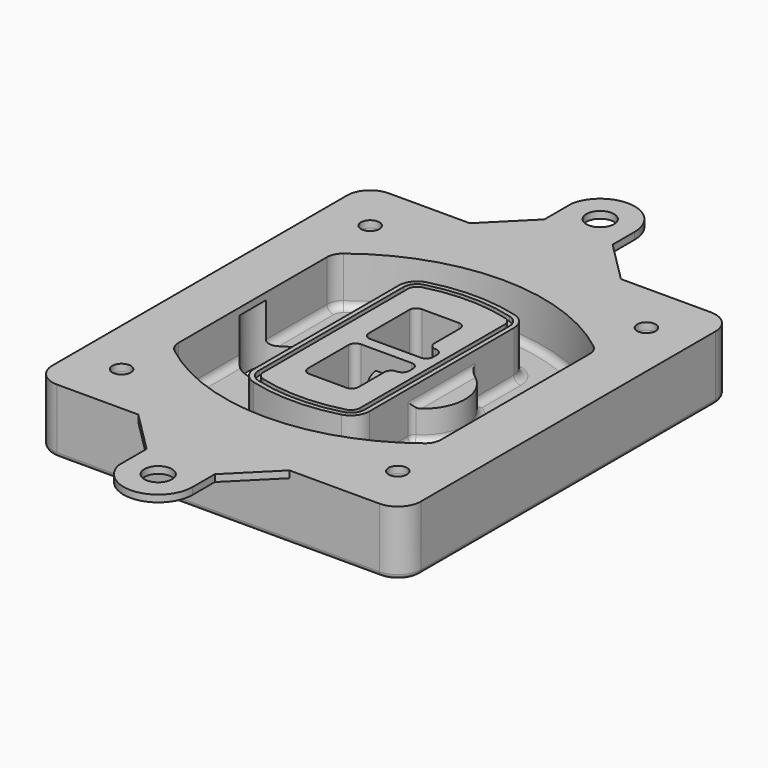
from build123d import *

# Parameters (mm, degrees)
F0_R      = 4
F1_DEPTH  = 25
F2_DEPTH  = 3
F3_DEPTH  = 18
F5_DEPTH  = 21
F6_DEPTH  = 2
F8_DEPTH  = 20
F9_DEPTH  = 16
F10_DEPTH = 25
F7_R      = 6
F7_R_2    = 4
F11_DEPTH = 6
F13_DEPTH = 9
F14_R     = 3
F15_R     = 2
F16_R     = 6
F16_R_2   = 4
F17_DEPTH = 3


with BuildPart() as f1:
    # F0 (on Top) → F1 (new body)
    with BuildSketch(Plane.XY):
        with BuildLine():
            ThreePointArc((-80, -80), (-77.0710678119, -87.0710678119), (-70, -90))
            Line((-70, -90), (70, -90))
            ThreePointArc((70, -90), (77.0710678119, -87.0710678119), (80, -80))
            Line((80, -80), (80, 80))
            ThreePointArc((80, 80), (77.0710678119, 87.0710678119), (70, 90))
            Line((70, 90), (-70, 90))
            ThreePointArc((-70, 90), (-77.0710678119, 87.0710678119), (-80, 80))
            Line((-80, 80), (-80, -80))
        make_face()
        with Locations((-60, -67.5)):
            Circle(F0_R, mode=Mode.SUBTRACT)
        with Locations((60, -67.5)):
            Circle(F0_R, mode=Mode.SUBTRACT)
        with Locations((-60, 67.5)):
            Circle(F0_R, mode=Mode.SUBTRACT)
        with BuildLine():
            ThreePointArc((-64, 40.2934422872), (-62.5820384798, 46.4328484224), (-58.6153846154, 51.3286200352))
            ThreePointArc((-58.6153846154, 51.3286200352), (0, 71.5), (58.6153846154, 51.3286200352))
            ThreePointArc((58.6153846154, 51.3286200352), (62.5820384798, 46.4328484224), (64, 40.2934422872))
            Line((64, 40.2934422872), (64, -40.2934422872))
            ThreePointArc((64, -40.2934422872), (62.5820384798, -46.4328484224), (58.6153846154, -51.3286200352))
            ThreePointArc((58.6153846154, -51.3286200352), (0, -71.5), (-58.6153846154, -51.3286200352))
            ThreePointArc((-58.6153846154, -51.3286200352), (-62.5820384798, -46.4328484224), (-64, -40.2934422872))
            Line((-64, -40.2934422872), (-64, 40.2934422872))
        make_face(mode=Mode.SUBTRACT)
        with Locations((60, 67.5)):
            Circle(F0_R, mode=Mode.SUBTRACT)
        with BuildLine():
            ThreePointArc((58.6153846154, 51.3286200352), (0, 71.5), (-58.6153846154, 51.3286200352))
            ThreePointArc((-58.6153846154, 51.3286200352), (-62.5820384798, 46.4328484224), (-64, 40.2934422872))
            Line((-64, 40.2934422872), (-64, -40.2934422872))
            ThreePointArc((-64, -40.2934422872), (-62.5820384798, -46.4328484224), (-58.6153846154, -51.3286200352))
            ThreePointArc((-58.6153846154, -51.3286200352), (0, -71.5), (58.6153846154, -51.3286200352))
            ThreePointArc((58.6153846154, -51.3286200352), (62.5820384798, -46.4328484224), (64, -40.2934422872))
            Line((64, -40.2934422872), (64, 40.2934422872))
            ThreePointArc((64, 40.2934422872), (62.5820384798, 46.4328484224), (58.6153846154, 51.3286200352))
        make_face()
        with BuildLine():
            Line((-60, -40.2934422872), (-60, 40.2934422872))
            ThreePointArc((-60, 40.2934422872), (-58.9871703427, 44.6787323838), (-56.1538461538, 48.1757121072))
            ThreePointArc((-56.1538461538, 48.1757121072), (0, 67.5), (56.1538461538, 48.1757121072))
            ThreePointArc((56.1538461538, 48.1757121072), (58.9871703427, 44.6787323838), (60, 40.2934422872))
            Line((60, 40.2934422872), (60, -40.2934422872))
            ThreePointArc((60, -40.2934422872), (58.9871703427, -44.6787323838), (56.1538461538, -48.1757121072))
            ThreePointArc((56.1538461538, -48.1757121072), (0, -67.5), (-56.1538461538, -48.1757121072))
            ThreePointArc((-56.1538461538, -48.1757121072), (-58.9871703427, -44.6787323838), (-60, -40.2934422872))
        make_face(mode=Mode.SUBTRACT)
        with BuildLine():
            ThreePointArc((-56.1538461538, 48.1757121072), (-58.9871703427, 44.6787323838), (-60, 40.2934422872))
            Line((-60, 40.2934422872), (-60, -40.2934422872))
            ThreePointArc((-60, -40.2934422872), (-58.9871703427, -44.6787323838), (-56.1538461538, -48.1757121072))
            ThreePointArc((-56.1538461538, -48.1757121072), (0, -67.5), (56.1538461538, -48.1757121072))
            ThreePointArc((56.1538461538, -48.1757121072), (58.9871703427, -44.6787323838), (60, -40.2934422872))
            Line((60, -40.2934422872), (60, 40.2934422872))
            ThreePointArc((60, 40.2934422872), (58.9871703427, 44.6787323838), (56.1538461538, 48.1757121072))
            ThreePointArc((56.1538461538, 48.1757121072), (0, 67.5), (-56.1538461538, 48.1757121072))
        make_face()
        with BuildLine():
            ThreePointArc((54.3076923077, 45.8110311612), (56.2910192399, 43.3631453548), (57, 40.2934422872))
            Line((57, 40.2934422872), (57, -40.2934422872))
            ThreePointArc((57, -40.2934422872), (56.2910192399, -43.3631453548), (54.3076923077, -45.8110311612))
            ThreePointArc((54.3076923077, -45.8110311612), (0, -64.5), (-54.3076923077, -45.8110311612))
            ThreePointArc((-54.3076923077, -45.8110311612), (-56.2910192399, -43.3631453548), (-57, -40.2934422872))
            Line((-57, -40.2934422872), (-57, 40.2934422872))
            ThreePointArc((-57, 40.2934422872), (-56.2910192399, 43.3631453548), (-54.3076923077, 45.8110311612))
            ThreePointArc((-54.3076923077, 45.8110311612), (0, 64.5), (54.3076923077, 45.8110311612))
        make_face(mode=Mode.SUBTRACT)
        with BuildLine():
            Line((57, -40.2934422872), (57, 40.2934422872))
            ThreePointArc((57, 40.2934422872), (56.2910192399, 43.3631453548), (54.3076923077, 45.8110311612))
            ThreePointArc((54.3076923077, 45.8110311612), (0, 64.5), (-54.3076923077, 45.8110311612))
            ThreePointArc((-54.3076923077, 45.8110311612), (-56.2910192399, 43.3631453548), (-57, 40.2934422872))
            Line((-57, 40.2934422872), (-57, -40.2934422872))
            ThreePointArc((-57, -40.2934422872), (-56.2910192399, -43.3631453548), (-54.3076923077, -45.8110311612))
            ThreePointArc((-54.3076923077, -45.8110311612), (0, -64.5), (54.3076923077, -45.8110311612))
            ThreePointArc((54.3076923077, -45.8110311612), (56.2910192399, -43.3631453548), (57, -40.2934422872))
        make_face()
    extrude(amount=-F1_DEPTH)

    # F0 (on Top) → F2 (join)
    with BuildSketch(Plane.XY):
        with BuildLine():
            ThreePointArc((-56.1538461538, 48.1757121072), (-58.9871703427, 44.6787323838), (-60, 40.2934422872))
            Line((-60, 40.2934422872), (-60, -40.2934422872))
            ThreePointArc((-60, -40.2934422872), (-58.9871703427, -44.6787323838), (-56.1538461538, -48.1757121072))
            ThreePointArc((-56.1538461538, -48.1757121072), (0, -67.5), (56.1538461538, -48.1757121072))
            ThreePointArc((56.1538461538, -48.1757121072), (58.9871703427, -44.6787323838), (60, -40.2934422872))
            Line((60, -40.2934422872), (60, 40.2934422872))
            ThreePointArc((60, 40.2934422872), (58.9871703427, 44.6787323838), (56.1538461538, 48.1757121072))
            ThreePointArc((56.1538461538, 48.1757121072), (0, 67.5), (-56.1538461538, 48.1757121072))
        make_face()
        with BuildLine():
            ThreePointArc((54.3076923077, 45.8110311612), (56.2910192399, 43.3631453548), (57, 40.2934422872))
            Line((57, 40.2934422872), (57, -40.2934422872))
            ThreePointArc((57, -40.2934422872), (56.2910192399, -43.3631453548), (54.3076923077, -45.8110311612))
            ThreePointArc((54.3076923077, -45.8110311612), (0, -64.5), (-54.3076923077, -45.8110311612))
            ThreePointArc((-54.3076923077, -45.8110311612), (-56.2910192399, -43.3631453548), (-57, -40.2934422872))
            Line((-57, -40.2934422872), (-57, 40.2934422872))
            ThreePointArc((-57, 40.2934422872), (-56.2910192399, 43.3631453548), (-54.3076923077, 45.8110311612))
            ThreePointArc((-54.3076923077, 45.8110311612), (0, 64.5), (54.3076923077, 45.8110311612))
        make_face(mode=Mode.SUBTRACT)
    extrude(amount=F2_DEPTH)

    # F0 (on Top) → F3 (cut)
    with BuildSketch(Plane.XY):
        with BuildLine():
            Line((57, -40.2934422872), (57, 40.2934422872))
            ThreePointArc((57, 40.2934422872), (56.2910192399, 43.3631453548), (54.3076923077, 45.8110311612))
            ThreePointArc((54.3076923077, 45.8110311612), (0, 64.5), (-54.3076923077, 45.8110311612))
            ThreePointArc((-54.3076923077, 45.8110311612), (-56.2910192399, 43.3631453548), (-57, 40.2934422872))
            Line((-57, 40.2934422872), (-57, -40.2934422872))
            ThreePointArc((-57, -40.2934422872), (-56.2910192399, -43.3631453548), (-54.3076923077, -45.8110311612))
            ThreePointArc((-54.3076923077, -45.8110311612), (0, -64.5), (54.3076923077, -45.8110311612))
            ThreePointArc((54.3076923077, -45.8110311612), (56.2910192399, -43.3631453548), (57, -40.2934422872))
        make_face()
    extrude(amount=-F3_DEPTH, mode=Mode.SUBTRACT)

    # F4 (on face) → F5 (join, through all)
    with BuildSketch(Plane.XY.offset(3)):
        with BuildLine():
            ThreePointArc((-25, -39.2465276821), (-23.3511545998, -44.1109737193), (-19.0842911877, -46.9702398883))
            ThreePointArc((-19.0842911877, -46.9702398883), (0, -49.5), (19.0842911877, -46.9702398883))
            ThreePointArc((19.0842911877, -46.9702398883), (23.3511545998, -44.1109737193), (25, -39.2465276821))
            Line((25, -39.2465276821), (25, 39.2465276821))
            ThreePointArc((25, 39.2465276821), (23.3511545998, 44.1109737193), (19.0842911877, 46.9702398883))
            ThreePointArc((19.0842911877, 46.9702398883), (0, 49.5), (-19.0842911877, 46.9702398883))
            ThreePointArc((-19.0842911877, 46.9702398883), (-23.3511545998, 44.1109737193), (-25, 39.2465276821))
            Line((-25, 39.2465276821), (-25, -39.2465276821))
        make_face()
        with BuildLine():
            ThreePointArc((18.5632183908, 45.0393118368), (21.7633659499, 42.89486221), (23, 39.2465276821))
            Line((23, 39.2465276821), (23, -39.2465276821))
            ThreePointArc((23, -39.2465276821), (21.7633659499, -42.89486221), (18.5632183908, -45.0393118368))
            ThreePointArc((18.5632183908, -45.0393118368), (0, -47.5), (-18.5632183908, -45.0393118368))
            ThreePointArc((-18.5632183908, -45.0393118368), (-21.7633659499, -42.89486221), (-23, -39.2465276821))
            Line((-23, -39.2465276821), (-23, 39.2465276821))
            ThreePointArc((-23, 39.2465276821), (-21.7633659499, 42.89486221), (-18.5632183908, 45.0393118368))
            ThreePointArc((-18.5632183908, 45.0393118368), (0, 47.5), (18.5632183908, 45.0393118368))
        make_face(mode=Mode.SUBTRACT)
        with BuildLine():
            Line((23, -39.2465276821), (23, 39.2465276821))
            ThreePointArc((23, 39.2465276821), (21.7633659499, 42.89486221), (18.5632183908, 45.0393118368))
            ThreePointArc((18.5632183908, 45.0393118368), (0, 47.5), (-18.5632183908, 45.0393118368))
            ThreePointArc((-18.5632183908, 45.0393118368), (-21.7633659499, 42.89486221), (-23, 39.2465276821))
            Line((-23, 39.2465276821), (-23, -39.2465276821))
            ThreePointArc((-23, -39.2465276821), (-21.7633659499, -42.89486221), (-18.5632183908, -45.0393118368))
            ThreePointArc((-18.5632183908, -45.0393118368), (0, -47.5), (18.5632183908, -45.0393118368))
            ThreePointArc((18.5632183908, -45.0393118368), (21.7633659499, -42.89486221), (23, -39.2465276821))
        make_face()
        with BuildLine():
            ThreePointArc((18.0421455939, 43.1083837852), (20.1755772999, 41.6787507007), (21, 39.2465276821))
            Line((21, 39.2465276821), (21, -39.2465276821))
            ThreePointArc((21, -39.2465276821), (20.1755772999, -41.6787507007), (18.0421455939, -43.1083837852))
            ThreePointArc((18.0421455939, -43.1083837852), (0, -45.5), (-18.0421455939, -43.1083837852))
            ThreePointArc((-18.0421455939, -43.1083837852), (-20.1755772999, -41.6787507007), (-21, -39.2465276821))
            Line((-21, -39.2465276821), (-21, 39.2465276821))
            ThreePointArc((-21, 39.2465276821), (-20.1755772999, 41.6787507007), (-18.0421455939, 43.1083837852))
            ThreePointArc((-18.0421455939, 43.1083837852), (0, 45.5), (18.0421455939, 43.1083837852))
        make_face(mode=Mode.SUBTRACT)
        with BuildLine():
            Line((21, -39.2465276821), (21, 39.2465276821))
            ThreePointArc((21, 39.2465276821), (20.1755772999, 41.6787507007), (18.0421455939, 43.1083837852))
            ThreePointArc((18.0421455939, 43.1083837852), (0, 45.5), (-18.0421455939, 43.1083837852))
            ThreePointArc((-18.0421455939, 43.1083837852), (-20.1755772999, 41.6787507007), (-21, 39.2465276821))
            Line((-21, 39.2465276821), (-21, -39.2465276821))
            ThreePointArc((-21, -39.2465276821), (-20.1755772999, -41.6787507007), (-18.0421455939, -43.1083837852))
            ThreePointArc((-18.0421455939, -43.1083837852), (0, -45.5), (18.0421455939, -43.1083837852))
            ThreePointArc((18.0421455939, -43.1083837852), (20.1755772999, -41.6787507007), (21, -39.2465276821))
        make_face()
        with BuildLine():
            Line((-8, -2.5), (14, -2.5))
            ThreePointArc((14, -2.5), (16.1213203436, -3.3786796564), (17, -5.5))
            Line((17, -5.5), (17, -7.5))
            ThreePointArc((17, -7.5), (16.1213203436, -9.6213203436), (14, -10.5))
            ThreePointArc((14, -10.5), (11.8786796564, -11.3786796564), (11, -13.5))
            Line((11, -13.5), (11, -27.5))
            ThreePointArc((11, -27.5), (10.1213203436, -29.6213203436), (8, -30.5))
            Line((8, -30.5), (-8, -30.5))
            ThreePointArc((-8, -30.5), (-10.1213203436, -29.6213203436), (-11, -27.5))
            Line((-11, -27.5), (-11, -5.5))
            ThreePointArc((-11, -5.5), (-10.1213203436, -3.3786796564), (-8, -2.5))
        make_face(mode=Mode.SUBTRACT)
        with BuildLine():
            ThreePointArc((-8, 2.5), (-10.1213203436, 3.3786796564), (-11, 5.5))
            Line((-11, 5.5), (-11, 27.5))
            ThreePointArc((-11, 27.5), (-10.1213203436, 29.6213203436), (-8, 30.5))
            Line((-8, 30.5), (8, 30.5))
            ThreePointArc((8, 30.5), (10.1213203436, 29.6213203436), (11, 27.5))
            Line((11, 27.5), (11, 13.5))
            ThreePointArc((11, 13.5), (11.8786796564, 11.3786796564), (14, 10.5))
            ThreePointArc((14, 10.5), (16.1213203436, 9.6213203436), (17, 7.5))
            Line((17, 7.5), (17, 5.5))
            ThreePointArc((17, 5.5), (16.1213203436, 3.3786796564), (14, 2.5))
            Line((14, 2.5), (-8, 2.5))
        make_face(mode=Mode.SUBTRACT)
    extrude(amount=-F5_DEPTH)

    # F4 (on face) → F6 (cut)
    with BuildSketch(Plane.XY.offset(3)):
        with BuildLine():
            Line((23, -39.2465276821), (23, 39.2465276821))
            ThreePointArc((23, 39.2465276821), (21.7633659499, 42.89486221), (18.5632183908, 45.0393118368))
            ThreePointArc((18.5632183908, 45.0393118368), (0, 47.5), (-18.5632183908, 45.0393118368))
            ThreePointArc((-18.5632183908, 45.0393118368), (-21.7633659499, 42.89486221), (-23, 39.2465276821))
            Line((-23, 39.2465276821), (-23, -39.2465276821))
            ThreePointArc((-23, -39.2465276821), (-21.7633659499, -42.89486221), (-18.5632183908, -45.0393118368))
            ThreePointArc((-18.5632183908, -45.0393118368), (0, -47.5), (18.5632183908, -45.0393118368))
            ThreePointArc((18.5632183908, -45.0393118368), (21.7633659499, -42.89486221), (23, -39.2465276821))
        make_face()
        with BuildLine():
            ThreePointArc((18.0421455939, 43.1083837852), (20.1755772999, 41.6787507007), (21, 39.2465276821))
            Line((21, 39.2465276821), (21, -39.2465276821))
            ThreePointArc((21, -39.2465276821), (20.1755772999, -41.6787507007), (18.0421455939, -43.1083837852))
            ThreePointArc((18.0421455939, -43.1083837852), (0, -45.5), (-18.0421455939, -43.1083837852))
            ThreePointArc((-18.0421455939, -43.1083837852), (-20.1755772999, -41.6787507007), (-21, -39.2465276821))
            Line((-21, -39.2465276821), (-21, 39.2465276821))
            ThreePointArc((-21, 39.2465276821), (-20.1755772999, 41.6787507007), (-18.0421455939, 43.1083837852))
            ThreePointArc((-18.0421455939, 43.1083837852), (0, 45.5), (18.0421455939, 43.1083837852))
        make_face(mode=Mode.SUBTRACT)
    extrude(amount=-F6_DEPTH, mode=Mode.SUBTRACT)

    # F7 (on face) → F8 (join)
    with BuildSketch(Plane(origin=(0, 0, -25), x_dir=(1, 0, 0), z_dir=(0, 0, -1))):
        with BuildLine():
            ThreePointArc((3.28842436, 0), (16.7567035675, 13.4682792075), (30.224982775, 0))
            Line((30.224982775, 0), (35.224982775, 0))
            ThreePointArc((35.224982775, 0), (16.7567035675, 18.4682792075), (-1.71157564, 0))
            Line((-1.71157564, 0), (3.28842436, 0))
        make_face()
        with BuildLine():
            Line((3.28842436, 0), (30.224982775, 0))
            ThreePointArc((30.224982775, 0), (16.7567035675, 13.4682792075), (3.28842436, 0))
        make_face()
        with BuildLine():
            ThreePointArc((3.28842436, 0), (16.7567035675, -13.4682792075), (30.224982775, 0))
            Line((30.224982775, 0), (3.28842436, 0))
        make_face()
        with BuildLine():
            Line((35.224982775, 0), (30.224982775, 0))
            ThreePointArc((30.224982775, 0), (16.7567035675, -13.4682792075), (3.28842436, 0))
            Line((3.28842436, 0), (-1.71157564, 0))
            ThreePointArc((-1.71157564, 0), (16.7567035675, -18.4682792075), (35.224982775, 0))
        make_face()
    extrude(amount=-F8_DEPTH)

    # F7 (on face) → F9 (cut)
    with BuildSketch(Plane(origin=(0, 0, -25), x_dir=(1, 0, 0), z_dir=(0, 0, -1))):
        with BuildLine():
            Line((3.28842436, 0), (30.224982775, 0))
            ThreePointArc((30.224982775, 0), (16.7567035675, 13.4682792075), (3.28842436, 0))
        make_face()
        with BuildLine():
            ThreePointArc((3.28842436, 0), (16.7567035675, -13.4682792075), (30.224982775, 0))
            Line((30.224982775, 0), (3.28842436, 0))
        make_face()
    extrude(amount=-F9_DEPTH, mode=Mode.SUBTRACT)

    # F7 (on face) → F10 (cut)
    with BuildSketch(Plane(origin=(0, 0, -25), x_dir=(1, 0, 0), z_dir=(0, 0, -1))):
        with BuildLine():
            Line((-59.0318229325, 0), (-32.0952645175, 0))
            ThreePointArc((-32.0952645175, 0), (-45.563543725, 13.4682792075), (-59.0318229325, 0))
        make_face()
        with BuildLine():
            ThreePointArc((-59.0318229325, 0), (-45.563543725, -13.4682792075), (-32.0952645175, 0))
            Line((-32.0952645175, 0), (-59.0318229325, 0))
        make_face()
    extrude(amount=-F10_DEPTH, mode=Mode.SUBTRACT)

    # F7 (on face) → F11 (cut)
    with BuildSketch(Plane(origin=(0, 0, -25), x_dir=(1, 0, 0), z_dir=(0, 0, -1))):
        with Locations((60, -67.5)):
            Circle(F7_R)
        with Locations((60, -67.5)):
            Circle(F7_R_2, mode=Mode.SUBTRACT)
        with Locations((60, -67.5)):
            Circle(F7_R)
        with Locations((60, -67.5)):
            Circle(F7_R_2, mode=Mode.SUBTRACT)
        with Locations((-60, -67.5)):
            Circle(F7_R)
        with Locations((-60, -67.5)):
            Circle(F7_R_2, mode=Mode.SUBTRACT)
        with Locations((-60, -67.5)):
            Circle(F7_R)
        with Locations((-60, -67.5)):
            Circle(F7_R_2, mode=Mode.SUBTRACT)
        with Locations((-60, 67.5)):
            Circle(F7_R)
        with Locations((-60, 67.5)):
            Circle(F7_R_2, mode=Mode.SUBTRACT)
        with Locations((-60, 67.5)):
            Circle(F7_R)
        with Locations((-60, 67.5)):
            Circle(F7_R_2, mode=Mode.SUBTRACT)
        with Locations((60, 67.5)):
            Circle(F7_R)
        with Locations((60, 67.5)):
            Circle(F7_R_2, mode=Mode.SUBTRACT)
        with Locations((60, 67.5)):
            Circle(F7_R)
        with Locations((60, 67.5)):
            Circle(F7_R_2, mode=Mode.SUBTRACT)
    extrude(amount=-F11_DEPTH, mode=Mode.SUBTRACT)

    # F12 (on face) → F13 (cut, through all)
    with BuildSketch(Plane(origin=(0, 0, -9), x_dir=(1, 0, 0), z_dir=(0, 0, -1))):
        with BuildLine():
            Line((11, 13.5), (11, 17.5481537753))
            ThreePointArc((11, 17.5481537753), (2.5696536419, 11.8239143813), (-1.5415842455, 2.5))
            Line((-1.5415842455, 2.5), (3.5224848595, 2.5))
            ThreePointArc((3.5224848595, 2.5), (6.1857188154, 8.3455872281), (11.2536447004, 12.2927168648))
            ThreePointArc((11.2536447004, 12.2927168648), (11.0640958889, 12.8831798879), (11, 13.5))
        make_face()
        with BuildLine():
            ThreePointArc((11.2536447004, -12.2927168648), (6.1857188154, -8.3455872281), (3.5224848595, -2.5))
            Line((3.5224848595, -2.5), (-1.5415842455, -2.5))
            ThreePointArc((-1.5415842455, -2.5), (2.5696536419, -11.8239143813), (11, -17.5481537753))
            Line((11, -17.5481537753), (11, -13.5))
            ThreePointArc((11, -13.5), (11.0640958889, -12.8831798879), (11.2536447004, -12.2927168648))
        make_face()
        with BuildLine():
            ThreePointArc((11.2536447004, 12.2927168648), (6.1857188154, 8.3455872281), (3.5224848595, 2.5))
            Line((3.5224848595, 2.5), (14, 2.5))
            ThreePointArc((14, 2.5), (16.1213203436, 3.3786796564), (17, 5.5))
            Line((17, 5.5), (17, 7.5))
            ThreePointArc((17, 7.5), (16.1213203436, 9.6213203436), (14, 10.5))
            ThreePointArc((14, 10.5), (12.3601599782, 10.9878446101), (11.2536447004, 12.2927168648))
        make_face()
        with BuildLine():
            Line((14, -2.5), (3.5224848595, -2.5))
            ThreePointArc((3.5224848595, -2.5), (6.1857188154, -8.3455872281), (11.2536447004, -12.2927168648))
            ThreePointArc((11.2536447004, -12.2927168648), (12.3601599782, -10.9878446101), (14, -10.5))
            ThreePointArc((14, -10.5), (16.1213203436, -9.6213203436), (17, -7.5))
            Line((17, -7.5), (17, -5.5))
            ThreePointArc((17, -5.5), (16.1213203436, -3.3786796564), (14, -2.5))
        make_face()
    extrude(amount=F13_DEPTH, mode=Mode.SUBTRACT)

    # F14
    f14_edges = [f1.edges().sort_by_distance(p)[0] for p in [
        (-57, -23.703476, -18),
        (-57, 23.703476, -18),
        (25, 0, -5),
        (25, 16.526506, -11.5),
        (25, -16.526506, -11.5),
        (25, -27.886517, -18),
        (35.224983, 0, -18),
    ]]
    fillet(f14_edges, radius=F14_R)

    # F15
    f15_edges = [f1.edges().sort_by_distance(p)[0] for p in [
        (0, -90, -25),
    ]]
    fillet(f15_edges, radius=F15_R)

    # F16 (on face) → F17 (join, through all)
    with BuildSketch(Plane.XY):
        with BuildLine():
            Line((-34.7228569914, 90), (30.9104660451, 90))
            Line((30.9104660451, 90), (12.9104660451, 108))
            Line((12.9104660451, 108), (12.9104660451, 120))
            ThreePointArc((12.9104660451, 120), (-0.4311982754, 134.9080489258), (-16.7228569914, 123.2963399261))
            Line((-16.7228569914, 123.2963399261), (-16.7228569914, 108))
            Line((-16.7228569914, 108), (-34.7228569914, 90))
        make_face()
        with Locations((-2.0895339549, 120)):
            Circle(F16_R, mode=Mode.SUBTRACT)
        with BuildLine():
            Line((12.9104660451, -108), (30.9104660451, -90))
            Line((30.9104660451, -90), (-34.7228569914, -90))
            Line((-34.7228569914, -90), (-16.7228569914, -108))
            Line((-16.7228569914, -108), (-16.7228569914, -123.2963399261))
            ThreePointArc((-16.7228569914, -123.2963399261), (-0.4311982754, -134.9080489258), (12.9104660451, -120))
            Line((12.9104660451, -120), (12.9104660451, -108))
        make_face()
        with Locations((-2.0895339549, -120)):
            Circle(F16_R, mode=Mode.SUBTRACT)
        with BuildLine():
            ThreePointArc((80, 80), (77.0710678119, 87.0710678119), (70, 90))
            Line((70, 90), (30.9104660451, 90))
            Line((30.9104660451, 90), (-34.7228569914, 90))
            Line((-34.7228569914, 90), (-70, 90))
            ThreePointArc((-70, 90), (-77.0710678119, 87.0710678119), (-80, 80))
            Line((-80, 80), (-80, -80))
            ThreePointArc((-80, -80), (-77.0710678119, -87.0710678119), (-70, -90))
            Line((-70, -90), (-34.7228569914, -90))
            Line((-34.7228569914, -90), (30.9104660451, -90))
            Line((30.9104660451, -90), (70, -90))
            ThreePointArc((70, -90), (77.0710678119, -87.0710678119), (80, -80))
            Line((80, -80), (80, 80))
        make_face()
        with Locations((-60, -67.5)):
            Circle(F16_R_2, mode=Mode.SUBTRACT)
        with Locations((60, -67.5)):
            Circle(F16_R_2, mode=Mode.SUBTRACT)
        with Locations((-60, 67.5)):
            Circle(F16_R_2, mode=Mode.SUBTRACT)
        with BuildLine():
            ThreePointArc((-60, 40.2934422872), (-58.9871703427, 44.6787323838), (-56.1538461538, 48.1757121072))
            ThreePointArc((-56.1538461538, 48.1757121072), (0, 67.5), (56.1538461538, 48.1757121072))
            ThreePointArc((56.1538461538, 48.1757121072), (58.9871703427, 44.6787323838), (60, 40.2934422872))
            Line((60, 40.2934422872), (60, -40.2934422872))
            ThreePointArc((60, -40.2934422872), (58.9871703427, -44.6787323838), (56.1538461538, -48.1757121072))
            ThreePointArc((56.1538461538, -48.1757121072), (0, -67.5), (-56.1538461538, -48.1757121072))
            ThreePointArc((-56.1538461538, -48.1757121072), (-58.9871703427, -44.6787323838), (-60, -40.2934422872))
            Line((-60, -40.2934422872), (-60, 40.2934422872))
        make_face(mode=Mode.SUBTRACT)
        with Locations((60, 67.5)):
            Circle(F16_R_2, mode=Mode.SUBTRACT)
    extrude(amount=F17_DEPTH)


solid = f1.part
